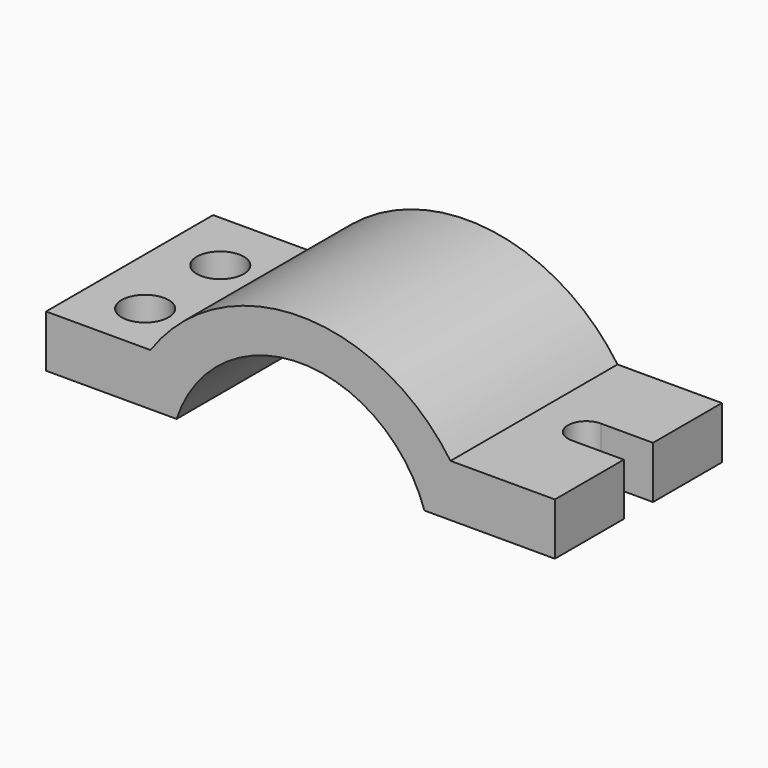
from build123d import *

# Parameters (mm, degrees)
F1_DEPTH = 50.8
F3_D     = 22.86
F5_D     = 17.78
F7_DEPTH = 25.4


with BuildPart() as f1:
    # F0 (on Front) → F1 (new body, symmetric)
    with BuildSketch(Plane.XZ):
        with BuildLine():
            Line((-143.2661156607, -19.5504479766), (-143.2661156607, -44.9504479766))
            Line((-143.2661156607, -44.9504479766), (-79.7661156607, -44.9504479766))
            ThreePointArc((-79.7661156607, -44.9504479766), (-19.4636605074, -1.3467768462), (40.8387946459, -44.9504479766))
            Line((40.8387946459, -44.9504479766), (104.3387946459, -44.9504479766))
            Line((104.3387946459, -44.9504479766), (104.3387946459, -19.5504479766))
            Line((104.3387946459, -19.5504479766), (53.5387946459, -19.5504479766))
            ThreePointArc((53.5387946459, -19.5504479766), (-19.4636605074, 18.6164115569), (-92.4661156607, -19.5504479766))
            Line((-92.4661156607, -19.5504479766), (-143.2661156607, -19.5504479766))
        make_face()
    extrude(amount=F1_DEPTH, both=True)

    # F3 (through all)
    with Locations(Plane.XY.offset(-19.5504479766)):
        with Locations((-115.3261156607, 20.2373286647), (-115.3261156607, -25.4826713353)):
            Hole(F3_D / 2)

    # F5 (through all)
    with Locations(Plane.XY):
        with Locations((78.9387946459, 0)):
            Hole(F5_D / 2)

    # F6 (on face) → F7 (cut)
    with BuildSketch(Plane.XY.offset(-19.5504479766)):
        with BuildLine():
            ThreePointArc((87.8287946459, 0), (85.3648331771, -6.1431367229), (79.338776919, -8.8809973641))
            Line((79.338776919, -8.8809973641), (104.3387946459, -8.8809973641))
            Line((104.3387946459, -8.8809973641), (104.3387946459, 8.8899307883))
            Line((104.3387946459, 8.8899307883), (78.9738742688, 8.8899307883))
            ThreePointArc((78.9738742688, 8.8899307883), (85.2373642393, 6.273764506), (87.8287946459, 0))
        make_face()
    extrude(amount=-F7_DEPTH, mode=Mode.SUBTRACT)


solid = f1.part
